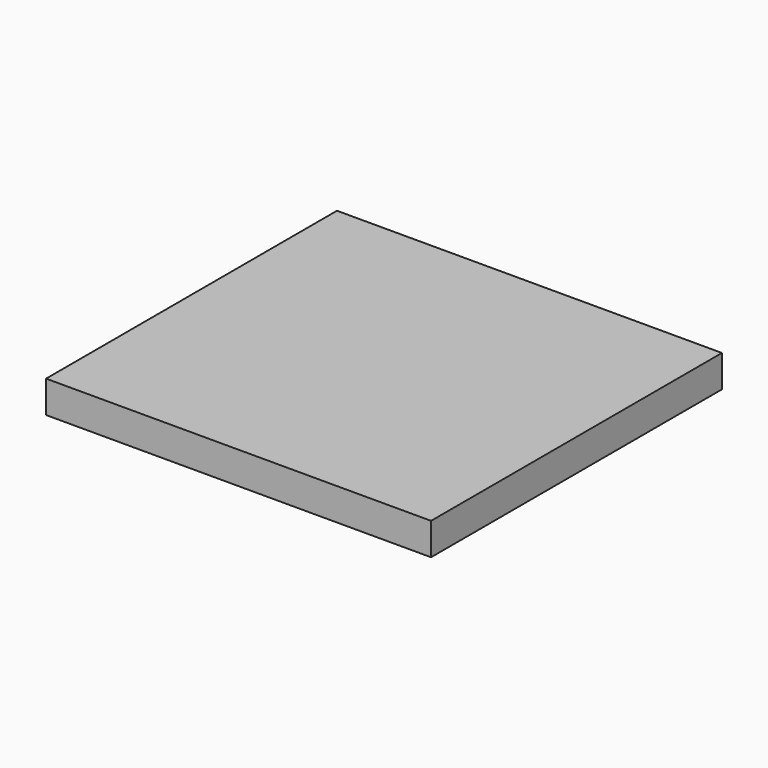
from build123d import *

# Parameters (mm, degrees)
SKETCH_W  = 180
SKETCH_H  = 170
PAD_DEPTH = 15


with BuildPart() as part:
    # Sketch → Pad (new body)
    with BuildSketch(Plane.XY):
        with Locations((-90, 85)):
            Rectangle(SKETCH_W, SKETCH_H)
    extrude(amount=PAD_DEPTH)


solid = part.part
